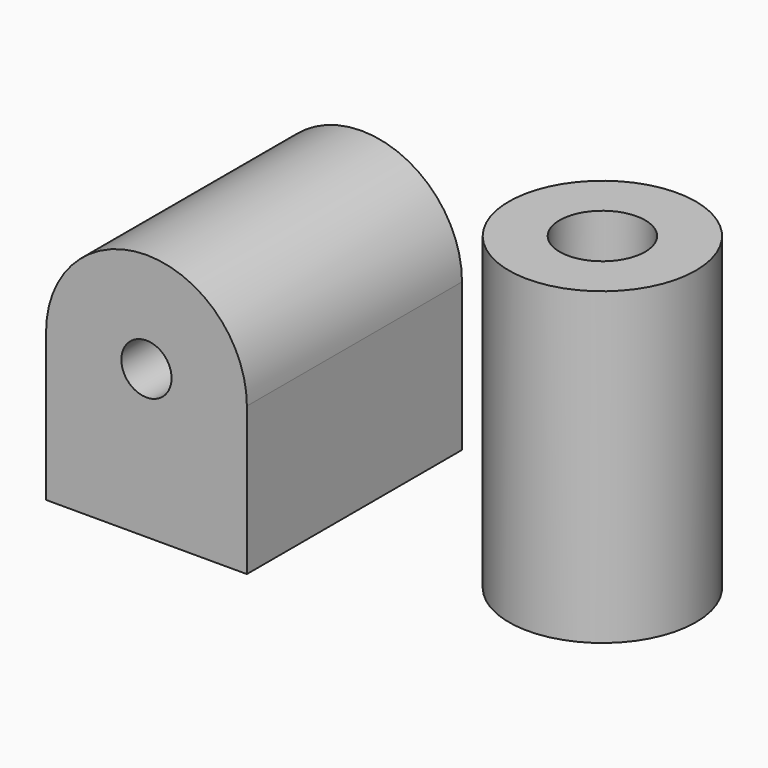
from build123d import *

# Parameters (mm, degrees)
F0_R          = 7
F1_DEPTH      = 37.5
F1_DEPTH_BACK = 37.5
F2_R          = 26.075054
F2_R_2        = 11.929896
F3_DEPTH      = 37.338
F3_DEPTH_BACK = 49.022


with BuildPart() as f1:
    # F0 (on Front) → F1 (new body, two sides)
    with BuildSketch(Plane.XZ) as f1_sk:
        with BuildLine():
            ThreePointArc((-10.014228, -7.731111), (-38.014228, 20.268889), (-66.014228, -7.731111))
            Line((-66.014228, -7.731111), (-66.014228, -48.998899))
            Line((-66.014228, -48.998899), (-10.014228, -48.998899))
            Line((-10.014228, -48.998899), (-10.014228, -7.731111))
        make_face()
        with Locations((-38.014228, -7.731111)):
            Circle(F0_R, mode=Mode.SUBTRACT)
    extrude(amount=F1_DEPTH)
    extrude(f1_sk.sketch, amount=-F1_DEPTH_BACK)


with BuildPart() as f3:
    # F2 (on Top) → F3 (new body, two sides)
    with BuildSketch(Plane.XY) as f3_sk:
        with Locations((54.434337, 5.883088)):
            Circle(F2_R)
        with Locations((54.434337, 5.883088)):
            Circle(F2_R_2, mode=Mode.SUBTRACT)
    extrude(amount=F3_DEPTH)
    extrude(f3_sk.sketch, amount=-F3_DEPTH_BACK)


solid = Compound([f1.part, f3.part])
